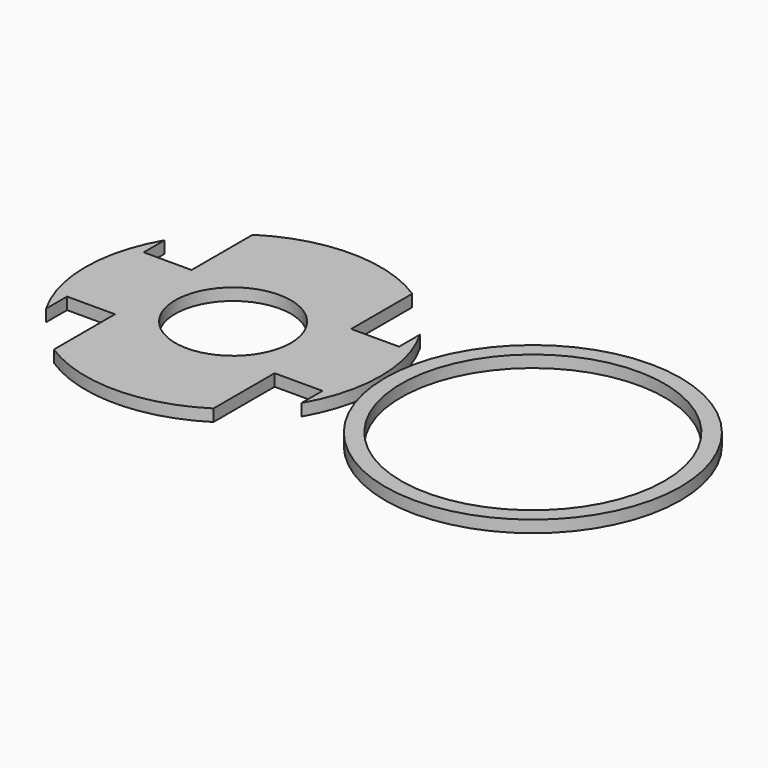
from build123d import *

# Parameters (mm, degrees)
F0_R     = 234.95
F0_R_2   = 209.55
F1_DEPTH = 19.05
F2_R     = 92.075
F3_DEPTH = 19.05


with BuildPart() as f1:
    # F0 (on Top) → F1 (new body)
    with BuildSketch(Plane.XY):
        Circle(F0_R)
        Circle(F0_R_2, mode=Mode.SUBTRACT)
    extrude(amount=F1_DEPTH)


with BuildPart() as f3:
    # F2 (on Top) → F3 (new body)
    with BuildSketch(Plane.XY):
        with BuildLine():
            Line((-350.04826, 76.2), (-350.04826, 197.667657))
            ThreePointArc((-350.04826, 197.667657), (-477.04826, 234.95), (-604.04826, 197.667657))
            Line((-604.04826, 197.667657), (-604.04826, 76.2))
            Line((-604.04826, 76.2), (-680.24826, 76.2))
            Line((-680.24826, 76.2), (-680.24826, 117.946015))
            ThreePointArc((-680.24826, 117.946015), (-711.99826, 0), (-680.24826, -117.946015))
            Line((-680.24826, -117.946015), (-680.24826, -76.2))
            Line((-680.24826, -76.2), (-604.04826, -76.2))
            Line((-604.04826, -76.2), (-604.04826, -197.667657))
            ThreePointArc((-604.04826, -197.667657), (-477.04826, -234.95), (-350.04826, -197.667657))
            Line((-350.04826, -197.667657), (-350.04826, -76.2))
            Line((-350.04826, -76.2), (-273.84826, -76.2))
            Line((-273.84826, -76.2), (-273.84826, -117.946015))
            ThreePointArc((-273.84826, -117.946015), (-242.09826, 0), (-273.84826, 117.946015))
            Line((-273.84826, 117.946015), (-273.84826, 76.2))
            Line((-273.84826, 76.2), (-350.04826, 76.2))
        make_face()
        with Locations((-477.04826, 0)):
            Circle(F2_R, mode=Mode.SUBTRACT)
    extrude(amount=F3_DEPTH)


solid = Compound([f1.part, f3.part])
